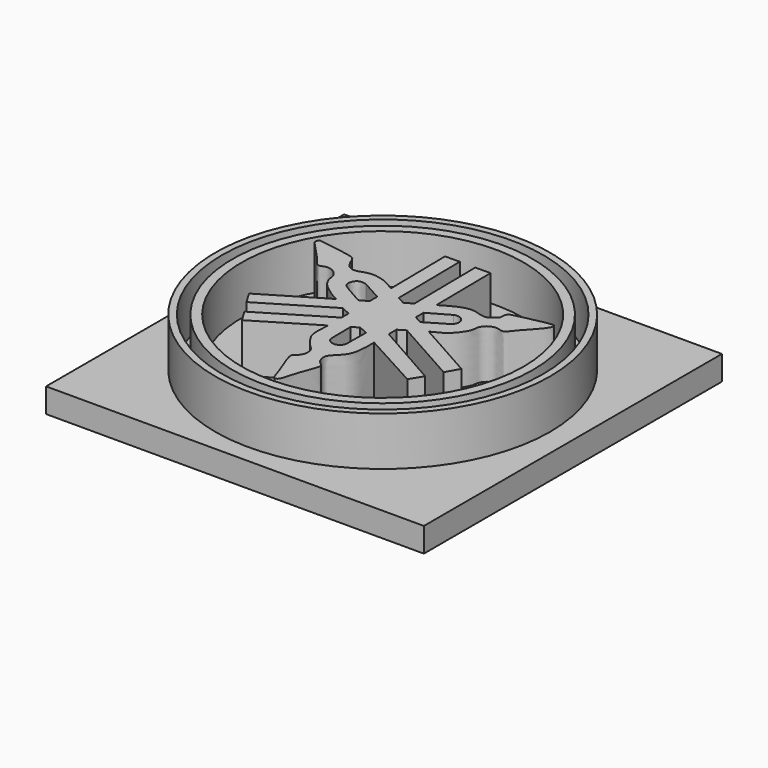
from build123d import *

# Parameters (mm, degrees)
F1_DEPTH = 15
F0_R     = 34.2969459838
F0_R_2   = 32.9224081402
F0_R_3   = 30.7595014755
F0_R_4   = 28.8744177806
F2_W     = 77.3750133812
F2_H     = 76.3003639877
F2_R     = 4.2829324223
F3_DEPTH = 5


with BuildPart() as f1:
    # F0 (on Top) → F1 (new body)
    with BuildSketch(Plane.XY):
        with BuildLine():
            ThreePointArc((-23.8190926611, 13.7336365879), (-24.2063281341, 13.0977498569), (-23.8821692765, 12.4275078997))
            add(Edge.make_bspline(
                [(-23.8821692765, 12.4275078997), (-22.3497539643, 10.8358997236), (-20.0380690862, 8.434921005), (-19.1703099364, 6.9787664347), (-18.3500026061, 6.7731804786), (-17.2855359186, 7.4443884438), (-15.606313992, 7.003067133), (-14.4449188573, 5.6334818271), (-14.4818018665, 4.4738562142), (-13.6900912288, 2.3086198184), (-10.1306088511, -0.0252702317), (-9.4000405533, -0.3434996567), (-9.1602113098, -0.4479672643)],
                knots=[0, 0, 0, 0, 0.1756551085, 0.2649799012, 0.324715012, 0.4032939543, 0.4972190916, 0.5915941664, 0.6672083939, 0.7765743156, 0.9266543415, 1, 1, 1, 1], degree=3))
            Line((-9.1602113098, -0.4479672643), (-21.2372075766, -7.6841842383))
            Line((-21.2372075766, -7.6841842383), (-19.7063903422, -10.2390653442))
            Line((-19.7063903422, -10.2390653442), (-6.3430766054, -2.232120939))
            Line((-6.3430766054, -2.232120939), (-4.469146952, -3.1428341754))
            Line((-4.469146952, -3.1428341754), (-4.469146952, -4.9394126981))
            Line((-4.469146952, -4.9394126981), (-17.8935769945, -13.0240144208))
            Line((-17.8935769945, -13.0240144208), (-16.3508716678, -15.5856668615))
            Line((-16.3508716678, -15.5856668615), (-4.469146952, -8.4301293973))
            add(Edge.make_bspline(
                [(-4.469146952, -8.4301293973), (-4.543985887, -9.8344267619), (-4.6698021898, -12.1952768005), (-3.9106313358, -13.727901736), (-2.2600165312, -15.8446026196), (-1.390523665, -16.3700694686), (-0.9969710788, -17.887371931), (-1.6100583116, -19.3734301697), (-2.6487381328, -19.8378105659), (-2.5876618953, -21.240177154), (-0.5417779256, -25.8342817595), (-0.0969760678, -28.0770016838), (1.0633732658, -28.0275659454), (1.6412829897, -25.372494771), (2.6471487812, -22.5147945774), (3.354645513, -20.7605330243), (3.4928771504, -19.8362998006), (2.3874846441, -19.2087036938), (1.8958241851, -18.140402895), (1.6798086272, -16.5481988812), (4.2562995618, -14.7254498449), (5.033478482, -11.8170394014), (5.0037855275, -9.5853952007), (4.9884142354, -8.4301293973)],
                knots=[0, 0, 0, 0, 0.0666003393, 0.1119658967, 0.1670831793, 0.2016204349, 0.2425512971, 0.2852220739, 0.3186997404, 0.355721518, 0.4347016817, 0.4844666138, 0.5116077192, 0.5658961177, 0.6285105846, 0.6753084098, 0.7052829233, 0.7416499039, 0.7788322419, 0.8190519193, 0.8773969141, 0.9365314809, 1, 1, 1, 1], degree=3))
            Line((4.9884142354, -8.4301293973), (17.0759037137, -15.0346281007))
            Line((17.0759037137, -15.0346281007), (18.6603944749, -12.4522615224))
            Line((18.6603944749, -12.4522615224), (4.9884142354, -4.6924874187))
            Line((4.9884142354, -4.6924874187), (4.9884142354, -2.7250931598))
            Line((4.9884142354, -2.7250931598), (6.4420481212, -1.8528689397))
            Line((6.4420481212, -1.8528689397), (20.088236779, -9.5118889585))
            Line((20.088236779, -9.5118889585), (21.5950027013, -6.8272619451))
            Line((21.5950027013, -6.8272619451), (9.4307696414, 0))
            add(Edge.make_bspline(
                [(9.4307696414, 0), (10.4185468848, 0.4702132327), (12.252963284, 1.3434535013), (13.6940249732, 3.1813919833), (14.6188929173, 4.6833500621), (14.5474891452, 6.0093441013), (15.4458713213, 7.4207050964), (17.1180114342, 7.9127478106), (18.151722758, 7.4571248204), (19.1055180901, 7.4943906606), (19.8314143372, 8.9234005529), (24.0798436701, 13.0416601846), (23.8544667472, 14.2499198291), (23.0749769236, 14.3384225726), (16.0517313251, 12.8408080467), (15.6233175717, 12.5317479023), (15.2643021979, 11.7981436042), (15.4664296172, 10.9336176542), (14.418760532, 10.0984654925), (13.4104334602, 9.4143186428), (11.870131024, 9.7976466891), (10.5797150073, 10.26357152), (8.560510761, 10.0323921361), (6.3025777782, 8.918163458), (5.1891023157, 8.2315809), (4.6718423255, 7.9126320779)],
                knots=[0, 0, 0, 0, 0.0596601198, 0.1107957314, 0.1543926866, 0.1922158634, 0.2342242387, 0.2771522115, 0.3124850182, 0.3414506133, 0.384116412, 0.4659607809, 0.4961566992, 0.5239850797, 0.6140334791, 0.6400111212, 0.6679728129, 0.6982130091, 0.7354295351, 0.7722723027, 0.8131047381, 0.8526188688, 0.8997936486, 0.9534495927, 1, 1, 1, 1], degree=3))
            Line((4.6718423255, 7.9126320779), (4.4951052405, 21.9824519008))
            Line((4.4951052405, 21.9824519008), (1.3963579744, 21.9435271978))
            Line((1.3963579744, 21.9435271978), (1.5950742339, 6.1239725939))
            Line((1.5950742339, 6.1239725939), (0, 5.2283755504))
            Line((0, 5.2283755504), (-1.5877775149, 6.1239725939))
            Line((-1.5877775149, 6.1239725939), (-1.7869827244, 21.9824519008))
            Line((-1.7869827244, 21.9824519008), (-4.790317812, 21.9447257114))
            Line((-4.790317812, 21.9447257114), (-4.614054622, 7.9126320779))
            add(Edge.make_bspline(
                [(-4.614054622, 7.9126320779), (-5.5283499763, 8.4655115111), (-7.3521872657, 9.5683959587), (-10.6785252685, 10.0947815068), (-12.7577339227, 8.8702735759), (-14.8898540254, 9.4916824063), (-15.6965314776, 11.9855025825), (-16.5151823583, 12.7031946368), (-20.7158549258, 13.2958291376), (-23.8190926611, 13.7336365879)],
                knots=[0, 0, 0, 0, 0.1535719054, 0.3063453909, 0.4350392014, 0.5529271528, 0.6844516075, 0.7668893104, 1, 1, 1, 1], degree=3))
        make_face()
        with BuildLine():
            ThreePointArc((1.8128274241, -11.5570453927), (0.3289579514, -12.8463779037), (-1.2519439915, -11.6780474782))
            Line((-1.2519439915, -11.6780474782), (-1.3217723463, -6.568888668))
            Line((-1.3217723463, -6.568888668), (0, -5.7553704828))
            Line((0, -5.7553704828), (1.8575950526, -6.568888668))
            Line((1.8575950526, -6.568888668), (1.8128274241, -11.5570453927))
        make_face(mode=Mode.SUBTRACT)
        with BuildLine():
            Line((-4.5264759101, 2.3184912279), (-6.1739198864, 1.4267399674))
            add(Edge.make_bspline(
                [(-6.1739198864, 1.4267399674), (-7.8657521842, 2.3570348742), (-10.3199128426, 3.7065144674), (-11.1303627307, 4.5172071833), (-11.0654310686, 5.8665375201), (-10.1217535618, 6.8486055785), (-9.1983254069, 6.6725588733), (-8.721916005, 6.5817339346)],
                knots=[0, 0, 0, 0, 0.3368260344, 0.4885976012, 0.6551738517, 0.8220994041, 1, 1, 1, 1], degree=3))
            Line((-8.721916005, 6.5817339346), (-4.5264759101, 4.2652720585))
            Line((-4.5264759101, 4.2652720585), (-4.5264759101, 2.3184912279))
        make_face(mode=Mode.SUBTRACT)
        with BuildLine():
            ThreePointArc((8.9102843776, 6.9470284507), (10.927138013, 6.426096909), (10.7790157199, 4.3483269401))
            Line((10.7790157199, 4.3483269401), (6.3308062963, 1.7025069101))
            Line((6.3308062963, 1.7025069101), (4.7280699946, 2.5857435539))
            Line((4.7280699946, 2.5857435539), (4.7280699946, 4.5700157061))
            Line((4.7280699946, 4.5700157061), (8.9102843776, 6.9470284507))
        make_face(mode=Mode.SUBTRACT)
    extrude(amount=F1_DEPTH)


with BuildPart() as f1b:
    # F0 (on Top) → F1, piece 2 (new body)
    with BuildSketch(Plane.XY):
        Circle(F0_R)
        Circle(F0_R_2, mode=Mode.SUBTRACT)
    extrude(amount=F1_DEPTH)


with BuildPart() as f1c:
    # F0 (on Top) → F1, piece 3 (new body)
    with BuildSketch(Plane.XY):
        Circle(F0_R_3)
        Circle(F0_R_4, mode=Mode.SUBTRACT)
    extrude(amount=F1_DEPTH)


with BuildPart() as f3:
    # F2 (on Top) → F3 (new body)
    with BuildSketch(Plane.XY):
        with Locations((0.1994986087, 0.0888127834)):
            Rectangle(F2_W, F2_H)
        with Locations((-31.086249277, 31.8507216871)):
            Circle(F2_R, mode=Mode.SUBTRACT)
    extrude(amount=F3_DEPTH)


solid = Compound([f1.part, f1b.part, f1c.part, f3.part])
